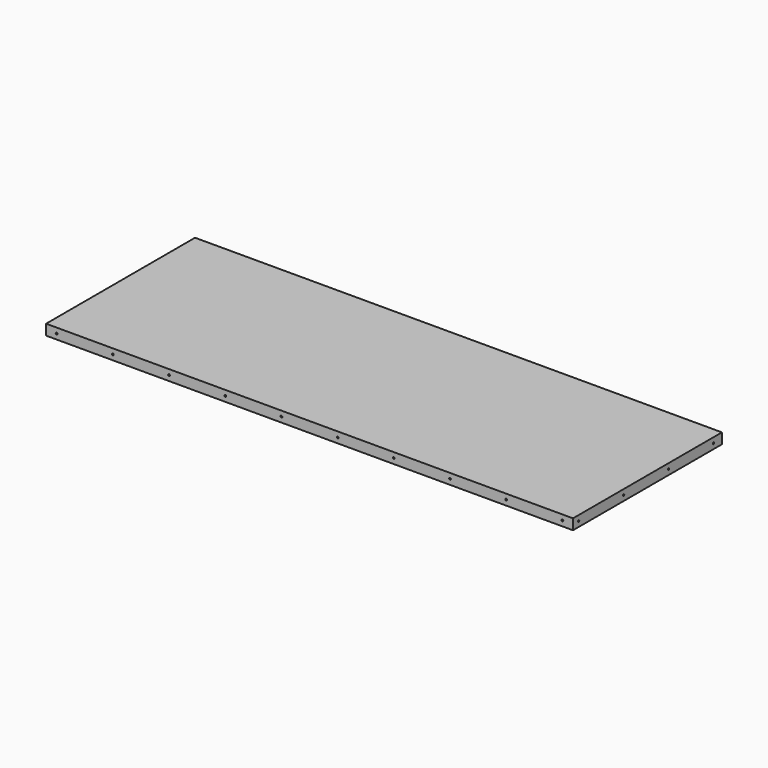
from build123d import *

# Parameters (mm, degrees)
F0_W     = 952.5
F0_H     = 336.55
F1_DEPTH = 19.05
F2_R     = 1.5875
F3_DEPTH = 952.501
F4_R     = 1.5875
F5_DEPTH = 336.551


with BuildPart() as f1:
    # F0 (on Top) → F1 (new body)
    with BuildSketch(Plane.XY):
        with Locations((476.25, -168.275)):
            Rectangle(F0_W, F0_H)
    extrude(amount=-F1_DEPTH)

    # F2 (on Right) → F3 (cut, through all)
    with BuildSketch(Plane.YZ):
        with Locations((-19.05, -9.525)):
            Circle(F2_R)
        with Locations((-120.65, -9.525)):
            Circle(F2_R)
        with Locations((-222.25, -9.525)):
            Circle(F2_R)
        with Locations((-323.85, -9.525)):
            Circle(F2_R)
    extrude(amount=F3_DEPTH, mode=Mode.SUBTRACT)

    # F4 (on Front) → F5 (cut, through all)
    with BuildSketch(Plane.XZ):
        with Locations((19.05, -9.525)):
            Circle(F4_R)
        with Locations((120.65, -9.525)):
            Circle(F4_R)
        with Locations((222.25, -9.525)):
            Circle(F4_R)
        with Locations((323.85, -9.525)):
            Circle(F4_R)
        with Locations((425.45, -9.525)):
            Circle(F4_R)
        with Locations((527.05, -9.525)):
            Circle(F4_R)
        with Locations((628.65, -9.525)):
            Circle(F4_R)
        with Locations((730.25, -9.525)):
            Circle(F4_R)
        with Locations((831.85, -9.525)):
            Circle(F4_R)
        with Locations((933.45, -9.525)):
            Circle(F4_R)
    extrude(amount=F5_DEPTH, mode=Mode.SUBTRACT)


solid = f1.part
